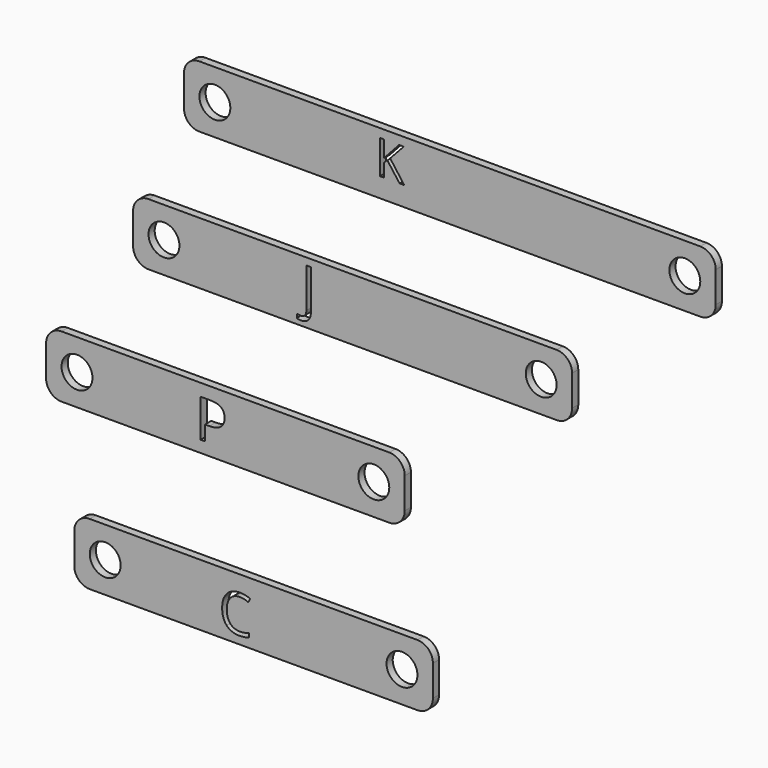
from build123d import *

# Parameters (mm, degrees)
F0_R     = 6.35
F1_DEPTH = 3.175
F2_R     = 6.35
F3_DEPTH = 3.175
F4_R     = 6.35
F5_DEPTH = 3.175
F6_R     = 6.35
F7_DEPTH = 3.175


with BuildPart() as f1:
    # F0 (on Front) → F1 (new body)
    with BuildSketch(Plane.XZ):
        with BuildLine():
            Line((54.613753643, 11.5491279232), (-151.126246357, 11.5491279232))
            ThreePointArc((-151.126246357, 11.5491279232), (-155.6163744175, 9.6892559838), (-157.476246357, 5.1991279232))
            Line((-157.476246357, 5.1991279232), (-157.476246357, -7.5008720768))
            ThreePointArc((-157.476246357, -7.5008720768), (-155.6163744175, -11.9910001373), (-151.126246357, -13.8508720768))
            Line((-151.126246357, -13.8508720768), (54.613753643, -13.8508720768))
            ThreePointArc((54.613753643, -13.8508720768), (59.1038817036, -11.9910001373), (60.963753643, -7.5008720768))
            Line((60.963753643, -7.5008720768), (60.963753643, 5.1991279232))
            ThreePointArc((60.963753643, 5.1991279232), (59.1038817036, 9.6892559838), (54.613753643, 11.5491279232))
        make_face()
        with Locations((-144.776246357, -1.1508720768)):
            Circle(F0_R, mode=Mode.SUBTRACT)
        with Locations((48.263753643, -1.1508720768)):
            Circle(F0_R, mode=Mode.SUBTRACT)
        Polygon((-72.7701305526, 1.9838299405), (-66.9970292252, -5.842871964), (-68.8900976038, -5.842871964), (-73.9332317644, 0.8691912792), (-75.3840793697, -0.4180952183), (-75.3840793697, -5.842871964), (-76.9924302642, -5.842871964), (-76.9924302642, 7.9962151109), (-75.3840793697, 7.9962151109), (-75.3840793697, 1.1327063975), (-69.108179081, 7.9962151109), (-67.2060239742, 7.9962151109), align=None, mode=Mode.SUBTRACT)
    extrude(amount=F1_DEPTH)


with BuildPart() as f3:
    # F2 (on Front) → F3 (new body)
    with BuildSketch(Plane.XZ):
        with BuildLine():
            Line((-4.3879321891, -45.0577498466), (-172.0279321891, -45.0577498466))
            ThreePointArc((-172.0279321891, -45.0577498466), (-176.5180602496, -46.917621786), (-178.3779321891, -51.4077498466))
            Line((-178.3779321891, -51.4077498466), (-178.3779321891, -64.1077498466))
            ThreePointArc((-178.3779321891, -64.1077498466), (-176.5180602496, -68.5978779071), (-172.0279321891, -70.4577498466))
            Line((-172.0279321891, -70.4577498466), (-4.3879321891, -70.4577498466))
            ThreePointArc((-4.3879321891, -70.4577498466), (0.1021958714, -68.5978779071), (1.9620678109, -64.1077498466))
            Line((1.9620678109, -64.1077498466), (1.9620678109, -51.4077498466))
            ThreePointArc((1.9620678109, -51.4077498466), (0.1021958714, -46.917621786), (-4.3879321891, -45.0577498466))
        make_face()
        with BuildLine():
            add(Edge.make_bspline(
                [(-106.3878316248, -67.3819416657), (-107.4591382882, -68.5478804177), (-109.4696237932, -68.5478804177)],
                knots=[0, 0, 0, 1, 1, 1], degree=2))
            add(Edge.make_bspline(
                [(-109.4696237932, -68.5478804177), (-110.5159333011, -68.5478804177), (-111.1194360549, -68.247914552)],
                knots=[0, 0, 0, 1, 1, 1], degree=2))
            Line((-111.1194360549, -68.247914552), (-111.1194360549, -66.6302414902))
            add(Edge.make_bspline(
                [(-111.1194360549, -66.6302414902), (-110.3266691239, -66.8516448673), (-109.4696237932, -66.8516448673)],
                knots=[0, 0, 0, 1, 1, 1], degree=2))
            add(Edge.make_bspline(
                [(-109.4696237932, -66.8516448673), (-108.3626069077, -66.8516448673), (-107.7876723316, -66.1820782027)],
                knots=[0, 0, 0, 1, 1, 1], degree=2))
            add(Edge.make_bspline(
                [(-107.7876723316, -66.1820782027), (-107.2127377556, -65.512511538), (-107.2127377556, -64.2519406974)],
                knots=[0, 0, 0, 1, 1, 1], degree=2))
            Line((-107.2127377556, -64.2519406974), (-107.2127377556, -47.9359402137))
            Line((-107.2127377556, -47.9359402137), (-105.3165249614, -47.9359402137))
            Line((-105.3165249614, -47.9359402137), (-105.3165249614, -64.0948157201))
            add(Edge.make_bspline(
                [(-105.3165249614, -64.0948157201), (-105.3165249614, -66.2160029137), (-106.3878316248, -67.3819416657)],
                knots=[0, 0, 0, 1, 1, 1], degree=2))
        make_face(mode=Mode.SUBTRACT)
        with Locations((-165.6779321891, -57.7577498466)):
            Circle(F2_R, mode=Mode.SUBTRACT)
        with Locations((-10.7379321891, -57.7577498466)):
            Circle(F2_R, mode=Mode.SUBTRACT)
    extrude(amount=F3_DEPTH)


with BuildPart() as f5:
    # F4 (on Front) → F5 (new body)
    with BuildSketch(Plane.XZ):
        with BuildLine():
            Line((-73.1382252097, -104.514076221), (-207.7582252097, -104.514076221))
            ThreePointArc((-207.7582252097, -104.514076221), (-212.2483532702, -106.3739481605), (-214.1082252097, -110.864076221))
            Line((-214.1082252097, -110.864076221), (-214.1082252097, -123.564076221))
            ThreePointArc((-214.1082252097, -123.564076221), (-212.2483532702, -128.0542042815), (-207.7582252097, -129.914076221))
            Line((-207.7582252097, -129.914076221), (-73.1382252097, -129.914076221))
            ThreePointArc((-73.1382252097, -129.914076221), (-68.6480971492, -128.0542042815), (-66.7882252097, -123.564076221))
            Line((-66.7882252097, -123.564076221), (-66.7882252097, -110.864076221))
            ThreePointArc((-66.7882252097, -110.864076221), (-68.6480971492, -106.3739481605), (-73.1382252097, -104.514076221))
        make_face()
        with BuildLine():
            add(Edge.make_bspline(
                [(-146.5991649036, -109.5589734274), (-140.7730584275, -109.5589734274), (-140.7730584275, -114.0884989646)],
                knots=[0, 0, 0, 1, 1, 1], degree=2))
            add(Edge.make_bspline(
                [(-140.7730584275, -114.0884989646), (-140.7730584275, -116.4502500712), (-142.3844260773, -117.7213077632)],
                knots=[0, 0, 0, 1, 1, 1], degree=2))
            add(Edge.make_bspline(
                [(-142.3844260773, -117.7213077632), (-143.9957937271, -118.9923654553), (-146.9939244546, -118.9923654553)],
                knots=[0, 0, 0, 1, 1, 1], degree=2))
            Line((-146.9939244546, -118.9923654553), (-148.8247920271, -118.9923654553))
            Line((-148.8247920271, -118.9923654553), (-148.8247920271, -125.1077353954))
            Line((-148.8247920271, -125.1077353954), (-150.6318379025, -125.1077353954))
            Line((-150.6318379025, -125.1077353954), (-150.6318379025, -109.5589734274))
            Line((-150.6318379025, -109.5589734274), (-146.5991649036, -109.5589734274))
        make_face(mode=Mode.SUBTRACT)
        with Locations((-201.4082252097, -117.214076221)):
            Circle(F4_R, mode=Mode.SUBTRACT)
        with Locations((-79.4882252097, -117.214076221)):
            Circle(F4_R, mode=Mode.SUBTRACT)
    extrude(amount=F5_DEPTH)


with BuildPart() as f7:
    # F6 (on Front) → F7 (new body)
    with BuildSketch(Plane.XZ):
        with BuildLine():
            Line((-61.5613216782, -168.5551468611), (-196.1813216782, -168.5551468611))
            ThreePointArc((-196.1813216782, -168.5551468611), (-200.6714497387, -170.4150188005), (-202.5313216782, -174.9051468611))
            Line((-202.5313216782, -174.9051468611), (-202.5313216782, -187.6051468611))
            ThreePointArc((-202.5313216782, -187.6051468611), (-200.6714497387, -192.0952749216), (-196.1813216782, -193.9551468611))
            Line((-196.1813216782, -193.9551468611), (-61.5613216782, -193.9551468611))
            ThreePointArc((-61.5613216782, -193.9551468611), (-57.0711936176, -192.0952749216), (-55.2113216782, -187.6051468611))
            Line((-55.2113216782, -187.6051468611), (-55.2113216782, -174.9051468611))
            ThreePointArc((-55.2113216782, -174.9051468611), (-57.0711936176, -170.4150188005), (-61.5613216782, -168.5551468611))
        make_face()
        with Locations((-189.8313216782, -181.2551468611)):
            Circle(F6_R, mode=Mode.SUBTRACT)
        with BuildLine():
            add(Edge.make_bspline(
                [(-131.0060910053, -177.5327917551), (-132.7372555065, -176.7222465262), (-134.4684200077, -176.7222465262)],
                knots=[0, 0, 0, 1, 1, 1], degree=2))
            add(Edge.make_bspline(
                [(-134.4684200077, -176.7222465262), (-136.9801095441, -176.7222465262), (-138.4344211482, -178.3950384286)],
                knots=[0, 0, 0, 1, 1, 1], degree=2))
            add(Edge.make_bspline(
                [(-138.4344211482, -178.3950384286), (-139.8887327523, -180.067830331), (-139.8887327523, -182.9764535392)],
                knots=[0, 0, 0, 1, 1, 1], degree=2))
            add(Edge.make_bspline(
                [(-139.8887327523, -182.9764535392), (-139.8887327523, -185.9651305971), (-138.4861225928, -187.5978955747)],
                knots=[0, 0, 0, 1, 1, 1], degree=2))
            add(Edge.make_bspline(
                [(-138.4861225928, -187.5978955747), (-137.0835124334, -189.2306605522), (-134.4884334701, -189.2306605522)],
                knots=[0, 0, 0, 1, 1, 1], degree=2))
            add(Edge.make_bspline(
                [(-134.4884334701, -189.2306605522), (-132.8940276289, -189.2306605522), (-130.8493188828, -188.6569412955)],
                knots=[0, 0, 0, 1, 1, 1], degree=2))
            Line((-130.8493188828, -188.6569412955), (-130.8493188828, -190.2079846348))
            add(Edge.make_bspline(
                [(-130.8493188828, -190.2079846348), (-132.4337179928, -190.805052931), (-134.7586152131, -190.805052931)],
                knots=[0, 0, 0, 1, 1, 1], degree=2))
            add(Edge.make_bspline(
                [(-134.7586152131, -190.805052931), (-138.1242124804, -190.805052931), (-139.9537765052, -188.7603441848)],
                knots=[0, 0, 0, 1, 1, 1], degree=2))
            add(Edge.make_bspline(
                [(-139.9537765052, -188.7603441848), (-141.7833405301, -186.7156354387), (-141.7833405301, -182.9531044997)],
                knots=[0, 0, 0, 1, 1, 1], degree=2))
            add(Edge.make_bspline(
                [(-141.7833405301, -182.9531044997), (-141.7833405301, -180.5981870857), (-140.9027481827, -178.8269956596)],
                knots=[0, 0, 0, 1, 1, 1], degree=2))
            add(Edge.make_bspline(
                [(-140.9027481827, -178.8269956596), (-140.0221558352, -177.0558042335), (-138.359370664, -176.0968258249)],
                knots=[0, 0, 0, 1, 1, 1], degree=2))
            add(Edge.make_bspline(
                [(-138.359370664, -176.0968258249), (-136.6965854929, -175.1378474162), (-134.4450709682, -175.1378474162)],
                knots=[0, 0, 0, 1, 1, 1], degree=2))
            add(Edge.make_bspline(
                [(-134.4450709682, -175.1378474162), (-132.0501266293, -175.1378474162), (-130.2555861637, -176.0117686095)],
                knots=[0, 0, 0, 1, 1, 1], degree=2))
            Line((-130.2555861637, -176.0117686095), (-131.0060910053, -177.5327917551))
        make_face(mode=Mode.SUBTRACT)
        with Locations((-67.9113216782, -181.2551468611)):
            Circle(F6_R, mode=Mode.SUBTRACT)
    extrude(amount=F7_DEPTH)


solid = Compound([f1.part, f3.part, f5.part, f7.part])
